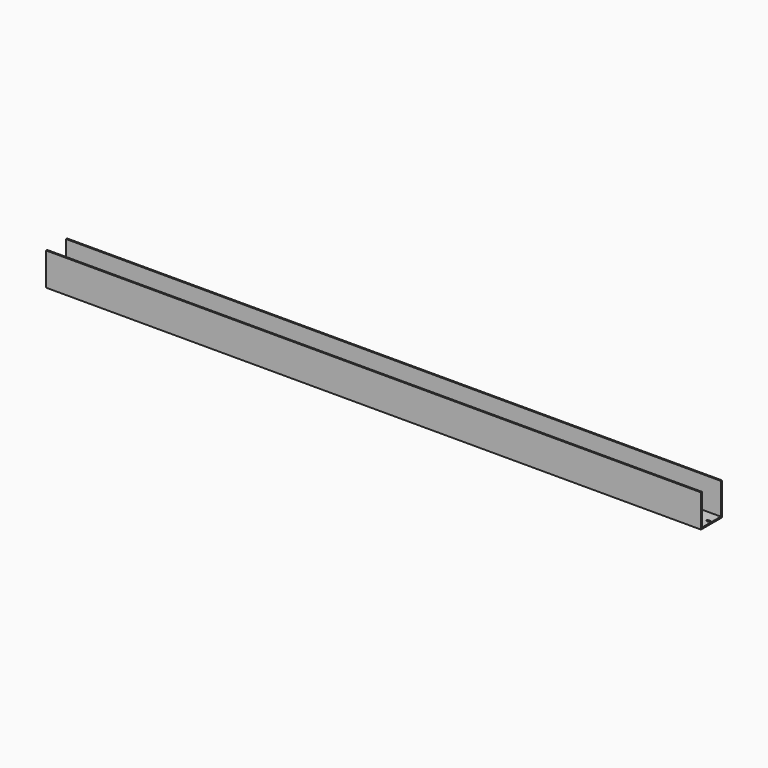
from build123d import *

# Parameters (mm, degrees)
F0_W     = 2000
F0_H     = 80
F1_DEPTH = 100
F2_W     = 2000
F2_H     = 72
F3_DEPTH = 96
F5_DEPTH = 4.001


with BuildPart() as f1:
    # F0 (on Top) → F1 (new body)
    with BuildSketch(Plane.XY):
        with Locations((1000, 40)):
            Rectangle(F0_W, F0_H)
    extrude(amount=F1_DEPTH)

    # F2 (on face) → F3 (cut)
    with BuildSketch(Plane.XY.offset(100)):
        with Locations((1000, 40)):
            Rectangle(F2_W, F2_H)
    extrude(amount=-F3_DEPTH, mode=Mode.SUBTRACT)

    # F4 (on face) → F5 (cut, through all)
    with BuildSketch(Plane.XY.offset(4)):
        with BuildLine():
            ThreePointArc((38.25, 43.25), (35, 40), (38.25, 36.75))
            Line((38.25, 36.75), (45.75, 36.75))
            ThreePointArc((45.75, 36.75), (49, 40), (45.75, 43.25))
            Line((45.75, 43.25), (38.25, 43.25))
        make_face()
        with BuildLine():
            ThreePointArc((88.25, 43.25), (85, 40), (88.25, 36.75))
            Line((88.25, 36.75), (95.75, 36.75))
            ThreePointArc((95.75, 36.75), (99, 40), (95.75, 43.25))
            Line((95.75, 43.25), (88.25, 43.25))
        make_face()
        with BuildLine():
            ThreePointArc((138.25, 43.25), (135, 40), (138.25, 36.75))
            Line((138.25, 36.75), (145.75, 36.75))
            ThreePointArc((145.75, 36.75), (149, 40), (145.75, 43.25))
            Line((145.75, 43.25), (138.25, 43.25))
        make_face()
        with BuildLine():
            ThreePointArc((188.25, 43.25), (185, 40), (188.25, 36.75))
            Line((188.25, 36.75), (195.75, 36.75))
            ThreePointArc((195.75, 36.75), (199, 40), (195.75, 43.25))
            Line((195.75, 43.25), (188.25, 43.25))
        make_face()
        with BuildLine():
            ThreePointArc((238.25, 43.25), (235, 40), (238.25, 36.75))
            Line((238.25, 36.75), (245.75, 36.75))
            ThreePointArc((245.75, 36.75), (249, 40), (245.75, 43.25))
            Line((245.75, 43.25), (238.25, 43.25))
        make_face()
        with BuildLine():
            ThreePointArc((288.25, 43.25), (285, 40), (288.25, 36.75))
            Line((288.25, 36.75), (295.75, 36.75))
            ThreePointArc((295.75, 36.75), (299, 40), (295.75, 43.25))
            Line((295.75, 43.25), (288.25, 43.25))
        make_face()
        with BuildLine():
            ThreePointArc((338.25, 43.25), (335, 40), (338.25, 36.75))
            Line((338.25, 36.75), (345.75, 36.75))
            ThreePointArc((345.75, 36.75), (349, 40), (345.75, 43.25))
            Line((345.75, 43.25), (338.25, 43.25))
        make_face()
        with BuildLine():
            ThreePointArc((388.25, 43.25), (385, 40), (388.25, 36.75))
            Line((388.25, 36.75), (395.75, 36.75))
            ThreePointArc((395.75, 36.75), (399, 40), (395.75, 43.25))
            Line((395.75, 43.25), (388.25, 43.25))
        make_face()
        with BuildLine():
            ThreePointArc((438.25, 43.25), (435, 40), (438.25, 36.75))
            Line((438.25, 36.75), (445.75, 36.75))
            ThreePointArc((445.75, 36.75), (449, 40), (445.75, 43.25))
            Line((445.75, 43.25), (438.25, 43.25))
        make_face()
        with BuildLine():
            ThreePointArc((488.25, 43.25), (485, 40), (488.25, 36.75))
            Line((488.25, 36.75), (495.75, 36.75))
            ThreePointArc((495.75, 36.75), (499, 40), (495.75, 43.25))
            Line((495.75, 43.25), (488.25, 43.25))
        make_face()
        with BuildLine():
            ThreePointArc((538.25, 43.25), (535, 40), (538.25, 36.75))
            Line((538.25, 36.75), (545.75, 36.75))
            ThreePointArc((545.75, 36.75), (549, 40), (545.75, 43.25))
            Line((545.75, 43.25), (538.25, 43.25))
        make_face()
        with BuildLine():
            ThreePointArc((588.25, 43.25), (585, 40), (588.25, 36.75))
            Line((588.25, 36.75), (595.75, 36.75))
            ThreePointArc((595.75, 36.75), (599, 40), (595.75, 43.25))
            Line((595.75, 43.25), (588.25, 43.25))
        make_face()
        with BuildLine():
            ThreePointArc((638.25, 43.25), (635, 40), (638.25, 36.75))
            Line((638.25, 36.75), (645.75, 36.75))
            ThreePointArc((645.75, 36.75), (649, 40), (645.75, 43.25))
            Line((645.75, 43.25), (638.25, 43.25))
        make_face()
        with BuildLine():
            ThreePointArc((688.25, 43.25), (685, 40), (688.25, 36.75))
            Line((688.25, 36.75), (695.75, 36.75))
            ThreePointArc((695.75, 36.75), (699, 40), (695.75, 43.25))
            Line((695.75, 43.25), (688.25, 43.25))
        make_face()
        with BuildLine():
            ThreePointArc((738.25, 43.25), (735, 40), (738.25, 36.75))
            Line((738.25, 36.75), (745.75, 36.75))
            ThreePointArc((745.75, 36.75), (749, 40), (745.75, 43.25))
            Line((745.75, 43.25), (738.25, 43.25))
        make_face()
        with BuildLine():
            ThreePointArc((788.25, 43.25), (785, 40), (788.25, 36.75))
            Line((788.25, 36.75), (795.75, 36.75))
            ThreePointArc((795.75, 36.75), (799, 40), (795.75, 43.25))
            Line((795.75, 43.25), (788.25, 43.25))
        make_face()
        with BuildLine():
            ThreePointArc((838.25, 43.25), (835, 40), (838.25, 36.75))
            Line((838.25, 36.75), (845.75, 36.75))
            ThreePointArc((845.75, 36.75), (849, 40), (845.75, 43.25))
            Line((845.75, 43.25), (838.25, 43.25))
        make_face()
        with BuildLine():
            ThreePointArc((888.25, 43.25), (885, 40), (888.25, 36.75))
            Line((888.25, 36.75), (895.75, 36.75))
            ThreePointArc((895.75, 36.75), (899, 40), (895.75, 43.25))
            Line((895.75, 43.25), (888.25, 43.25))
        make_face()
        with BuildLine():
            ThreePointArc((938.25, 43.25), (935, 40), (938.25, 36.75))
            Line((938.25, 36.75), (945.75, 36.75))
            ThreePointArc((945.75, 36.75), (949, 40), (945.75, 43.25))
            Line((945.75, 43.25), (938.25, 43.25))
        make_face()
        with BuildLine():
            ThreePointArc((988.25, 43.25), (985, 40), (988.25, 36.75))
            Line((988.25, 36.75), (995.75, 36.75))
            ThreePointArc((995.75, 36.75), (999, 40), (995.75, 43.25))
            Line((995.75, 43.25), (988.25, 43.25))
        make_face()
        with BuildLine():
            ThreePointArc((1038.25, 43.25), (1035, 40), (1038.25, 36.75))
            Line((1038.25, 36.75), (1045.75, 36.75))
            ThreePointArc((1045.75, 36.75), (1049, 40), (1045.75, 43.25))
            Line((1045.75, 43.25), (1038.25, 43.25))
        make_face()
        with BuildLine():
            ThreePointArc((1088.25, 43.25), (1085, 40), (1088.25, 36.75))
            Line((1088.25, 36.75), (1095.75, 36.75))
            ThreePointArc((1095.75, 36.75), (1099, 40), (1095.75, 43.25))
            Line((1095.75, 43.25), (1088.25, 43.25))
        make_face()
        with BuildLine():
            ThreePointArc((1138.25, 43.25), (1135, 40), (1138.25, 36.75))
            Line((1138.25, 36.75), (1145.75, 36.75))
            ThreePointArc((1145.75, 36.75), (1149, 40), (1145.75, 43.25))
            Line((1145.75, 43.25), (1138.25, 43.25))
        make_face()
        with BuildLine():
            ThreePointArc((1188.25, 43.25), (1185, 40), (1188.25, 36.75))
            Line((1188.25, 36.75), (1195.75, 36.75))
            ThreePointArc((1195.75, 36.75), (1199, 40), (1195.75, 43.25))
            Line((1195.75, 43.25), (1188.25, 43.25))
        make_face()
        with BuildLine():
            ThreePointArc((1238.25, 43.25), (1235, 40), (1238.25, 36.75))
            Line((1238.25, 36.75), (1245.75, 36.75))
            ThreePointArc((1245.75, 36.75), (1249, 40), (1245.75, 43.25))
            Line((1245.75, 43.25), (1238.25, 43.25))
        make_face()
        with BuildLine():
            ThreePointArc((1288.25, 43.25), (1285, 40), (1288.25, 36.75))
            Line((1288.25, 36.75), (1295.75, 36.75))
            ThreePointArc((1295.75, 36.75), (1299, 40), (1295.75, 43.25))
            Line((1295.75, 43.25), (1288.25, 43.25))
        make_face()
        with BuildLine():
            ThreePointArc((1338.25, 43.25), (1335, 40), (1338.25, 36.75))
            Line((1338.25, 36.75), (1345.75, 36.75))
            ThreePointArc((1345.75, 36.75), (1349, 40), (1345.75, 43.25))
            Line((1345.75, 43.25), (1338.25, 43.25))
        make_face()
        with BuildLine():
            ThreePointArc((1388.25, 43.25), (1385, 40), (1388.25, 36.75))
            Line((1388.25, 36.75), (1395.75, 36.75))
            ThreePointArc((1395.75, 36.75), (1399, 40), (1395.75, 43.25))
            Line((1395.75, 43.25), (1388.25, 43.25))
        make_face()
        with BuildLine():
            ThreePointArc((1438.25, 43.25), (1435, 40), (1438.25, 36.75))
            Line((1438.25, 36.75), (1445.75, 36.75))
            ThreePointArc((1445.75, 36.75), (1449, 40), (1445.75, 43.25))
            Line((1445.75, 43.25), (1438.25, 43.25))
        make_face()
        with BuildLine():
            ThreePointArc((1488.25, 43.25), (1485, 40), (1488.25, 36.75))
            Line((1488.25, 36.75), (1495.75, 36.75))
            ThreePointArc((1495.75, 36.75), (1499, 40), (1495.75, 43.25))
            Line((1495.75, 43.25), (1488.25, 43.25))
        make_face()
        with BuildLine():
            ThreePointArc((1538.25, 43.25), (1535, 40), (1538.25, 36.75))
            Line((1538.25, 36.75), (1545.75, 36.75))
            ThreePointArc((1545.75, 36.75), (1549, 40), (1545.75, 43.25))
            Line((1545.75, 43.25), (1538.25, 43.25))
        make_face()
        with BuildLine():
            ThreePointArc((1588.25, 43.25), (1585, 40), (1588.25, 36.75))
            Line((1588.25, 36.75), (1595.75, 36.75))
            ThreePointArc((1595.75, 36.75), (1599, 40), (1595.75, 43.25))
            Line((1595.75, 43.25), (1588.25, 43.25))
        make_face()
        with BuildLine():
            ThreePointArc((1638.25, 43.25), (1635, 40), (1638.25, 36.75))
            Line((1638.25, 36.75), (1645.75, 36.75))
            ThreePointArc((1645.75, 36.75), (1649, 40), (1645.75, 43.25))
            Line((1645.75, 43.25), (1638.25, 43.25))
        make_face()
        with BuildLine():
            ThreePointArc((1688.25, 43.25), (1685, 40), (1688.25, 36.75))
            Line((1688.25, 36.75), (1695.75, 36.75))
            ThreePointArc((1695.75, 36.75), (1699, 40), (1695.75, 43.25))
            Line((1695.75, 43.25), (1688.25, 43.25))
        make_face()
        with BuildLine():
            ThreePointArc((1738.25, 43.25), (1735, 40), (1738.25, 36.75))
            Line((1738.25, 36.75), (1745.75, 36.75))
            ThreePointArc((1745.75, 36.75), (1749, 40), (1745.75, 43.25))
            Line((1745.75, 43.25), (1738.25, 43.25))
        make_face()
        with BuildLine():
            ThreePointArc((1788.25, 43.25), (1785, 40), (1788.25, 36.75))
            Line((1788.25, 36.75), (1795.75, 36.75))
            ThreePointArc((1795.75, 36.75), (1799, 40), (1795.75, 43.25))
            Line((1795.75, 43.25), (1788.25, 43.25))
        make_face()
        with BuildLine():
            ThreePointArc((1838.25, 43.25), (1835, 40), (1838.25, 36.75))
            Line((1838.25, 36.75), (1845.75, 36.75))
            ThreePointArc((1845.75, 36.75), (1849, 40), (1845.75, 43.25))
            Line((1845.75, 43.25), (1838.25, 43.25))
        make_face()
        with BuildLine():
            ThreePointArc((1888.25, 43.25), (1885, 40), (1888.25, 36.75))
            Line((1888.25, 36.75), (1895.75, 36.75))
            ThreePointArc((1895.75, 36.75), (1899, 40), (1895.75, 43.25))
            Line((1895.75, 43.25), (1888.25, 43.25))
        make_face()
        with BuildLine():
            ThreePointArc((1938.25, 43.25), (1935, 40), (1938.25, 36.75))
            Line((1938.25, 36.75), (1945.75, 36.75))
            ThreePointArc((1945.75, 36.75), (1949, 40), (1945.75, 43.25))
            Line((1945.75, 43.25), (1938.25, 43.25))
        make_face()
        with BuildLine():
            ThreePointArc((1988.25, 43.25), (1985, 40), (1988.25, 36.75))
            Line((1988.25, 36.75), (1995.75, 36.75))
            ThreePointArc((1995.75, 36.75), (1999, 40), (1995.75, 43.25))
            Line((1995.75, 43.25), (1988.25, 43.25))
        make_face()
    extrude(amount=-F5_DEPTH, mode=Mode.SUBTRACT)


solid = f1.part
